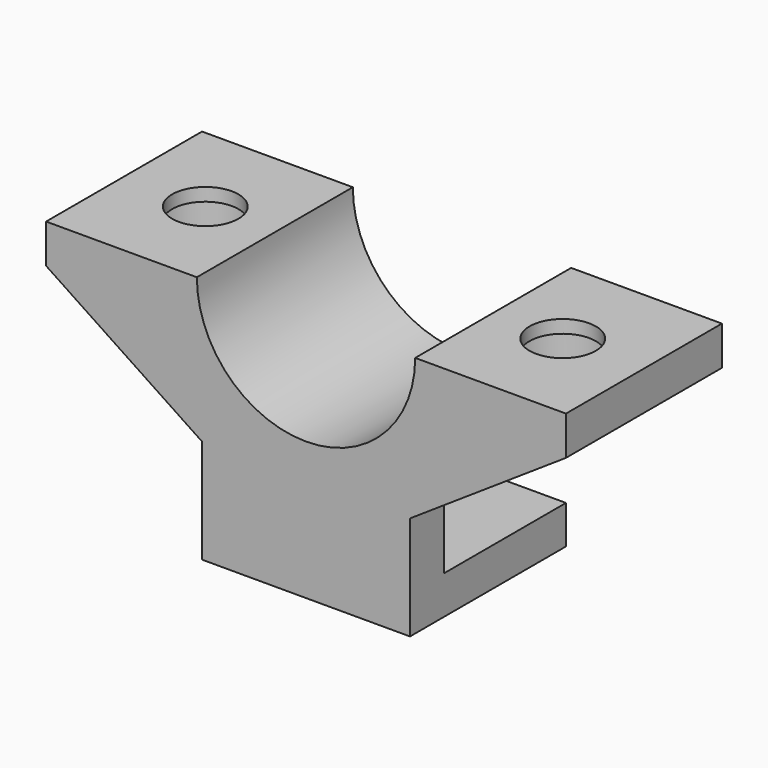
from build123d import *

# Parameters (mm, degrees)
F0_W      = 50.8
F0_H      = 13.97
F1_DEPTH  = 19.05
F3_DEPTH  = 19.05
F5_DEPTH  = 25.4
F6_R      = 3.2385
F7_DEPTH  = 25.4
F8_R      = 4.8475114841
F9_DEPTH  = 12.7
F10_W     = 20.32
F10_H     = 19.05
F11_DEPTH = 10.16
F12_W     = 14.8905639175
F12_H     = 6.35
F13_DEPTH = 25.4


with BuildPart() as f1:
    # F0 (on Front) → F1 (new body)
    with BuildSketch(Plane.XZ):
        with Locations((0, -6.985)):
            Rectangle(F0_W, F0_H)
    extrude(amount=-F1_DEPTH)

    # F2 (on face) → F3 (cut)
    with BuildSketch(Plane.XZ):
        with BuildLine():
            ThreePointArc((-10.668, 0), (0, -10.668), (10.668, 0))
            Line((10.668, 0), (-10.668, 0))
        make_face()
    extrude(amount=-F3_DEPTH, mode=Mode.SUBTRACT)

    # F4 (on face) → F5 (cut)
    with BuildSketch(Plane.XZ):
        Polygon((-25.4, -3.81), (-25.4, -13.97), (-10.16, -13.97), align=None)
        Polygon((25.4, -13.97), (25.4, -3.81), (10.16, -13.97), align=None)
    extrude(amount=-F5_DEPTH, mode=Mode.SUBTRACT)

    # F6 (on face) → F7 (cut)
    with BuildSketch(Plane.XY):
        with Locations((-17.4625, 9.525)):
            Circle(F6_R)
        with Locations((17.4625, 9.525)):
            Circle(F6_R)
    extrude(amount=-F7_DEPTH, mode=Mode.SUBTRACT)

    # F8 (on face) → F9 (cut)
    with BuildSketch(Plane(origin=(0, 0, -13.97), x_dir=(1, 0, 0), z_dir=(0, 0, -1))):
        with Locations((-17.4625, -9.525)):
            Circle(F8_R)
        with Locations((17.4625, -9.525)):
            Circle(F8_R)
    extrude(amount=-F9_DEPTH, mode=Mode.SUBTRACT)

    # F10 (on face) → F11 (join)
    with BuildSketch(Plane(origin=(0, 0, -13.97), x_dir=(1, 0, 0), z_dir=(0, 0, -1))):
        with Locations((0, -9.525)):
            Rectangle(F10_W, F10_H)
    extrude(amount=F11_DEPTH)

    # F12 (on face) → F13 (cut)
    with BuildSketch(Plane(origin=(-10.16, 0, 0), x_dir=(0, -1, 0), z_dir=(-1, 0, 0))):
        with Locations((-11.6047180412, -17.2086453915)):
            Rectangle(F12_W, F12_H)
    extrude(amount=-F13_DEPTH, mode=Mode.SUBTRACT)


solid = f1.part
